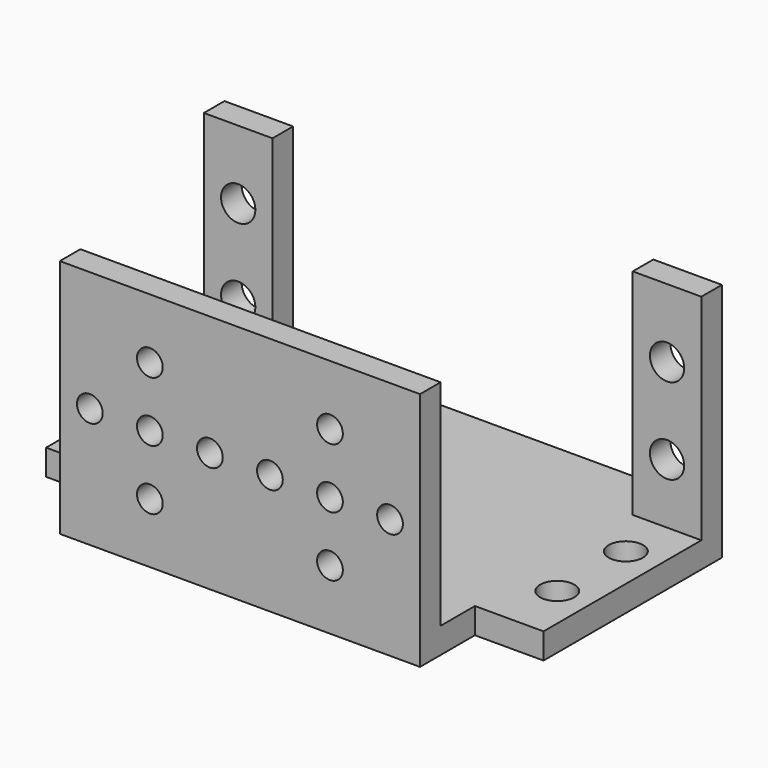
from build123d import *

# Parameters (mm, degrees)
F1_DEPTH = 3
F2_W     = 42
F2_H     = 3
F2_W_2   = 8
F3_DEPTH = 25
F4_R     = 2
F5_DEPTH = 37.001
F6_R     = 1.5
F7_DEPTH = 37.001
F8_R     = 2
F9_DEPTH = 28.001


with BuildPart() as f1:
    # F0 (on Top) → F1 (new body)
    with BuildSketch(Plane.XY):
        Polygon((8, 8), (8, 0), (50, 0), (50, 8), (58, 8), (58, 34), (50, 34), (50, 37), (8, 37), (8, 34), (0, 34), (0, 8), align=None)
    extrude(amount=F1_DEPTH)

    # F2 (on face) → F3 (join)
    with BuildSketch(Plane.XY.offset(3)):
        with Locations((29, 1.5)):
            Rectangle(F2_W, F2_H)
        with Locations((4, 32.5)):
            Rectangle(F2_W_2, F2_H)
        with Locations((54, 32.5)):
            Rectangle(F2_W_2, F2_H)
    extrude(amount=F3_DEPTH)

    # F4 (on Front) → F5 (cut, through all)
    with BuildSketch(Plane.XZ):
        with Locations((54, 20)):
            Circle(F4_R)
        with Locations((54, 10)):
            Circle(F4_R)
        with Locations((4, 20)):
            Circle(F4_R)
        with Locations((4, 10)):
            Circle(F4_R)
    extrude(amount=-F5_DEPTH, mode=Mode.SUBTRACT)

    # F6 (on face) → F7 (cut, through all)
    with BuildSketch(Plane.XZ):
        with Locations((39.5, 14)):
            Circle(F6_R)
        with Locations((39.5, 21)):
            Circle(F6_R)
        with Locations((32.5, 14)):
            Circle(F6_R)
        with Locations((25.5, 14)):
            Circle(F6_R)
        with Locations((18.5, 14)):
            Circle(F6_R)
        with Locations((11.5, 14)):
            Circle(F6_R)
        with Locations((46.5, 14)):
            Circle(F6_R)
        with Locations((18.5, 21)):
            Circle(F6_R)
        with Locations((39.5, 7)):
            Circle(F6_R)
        with Locations((18.5, 7)):
            Circle(F6_R)
    extrude(amount=-F7_DEPTH, mode=Mode.SUBTRACT)

    # F8 (on face) → F9 (cut, through all)
    with BuildSketch(Plane(origin=(0, 0, 0), x_dir=(1, 0, 0), z_dir=(0, 0, -1))):
        with Locations((4, -15)):
            Circle(F8_R)
        with Locations((4, -25)):
            Circle(F8_R)
        with Locations((54, -25)):
            Circle(F8_R)
        with Locations((54, -15)):
            Circle(F8_R)
    extrude(amount=-F9_DEPTH, mode=Mode.SUBTRACT)


solid = f1.part
